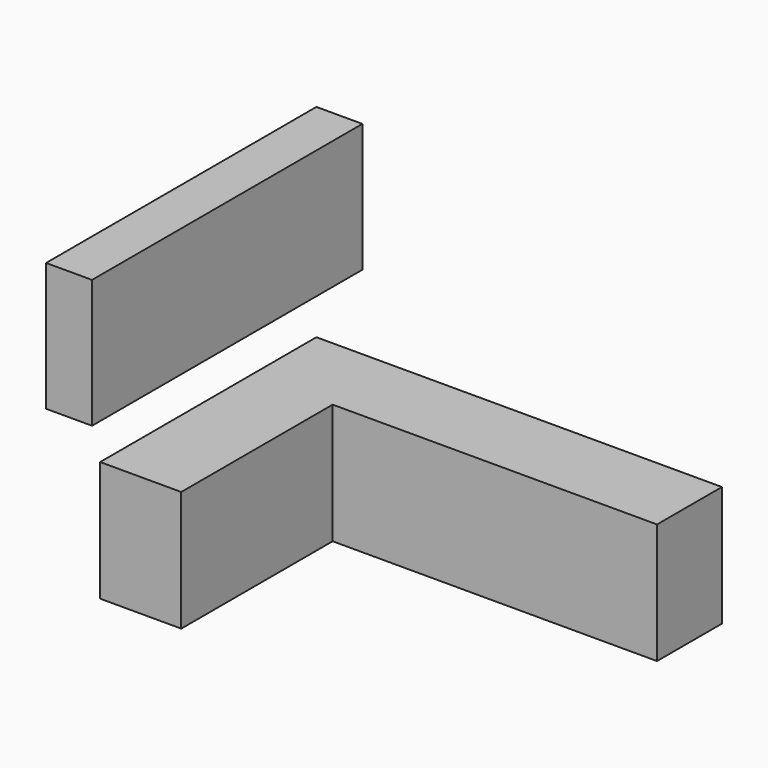
from build123d import *

# Parameters (mm, degrees)
F1_DEPTH = 890
F3_W     = 340
F3_H     = 2500
F4_DEPTH = 950


with BuildPart() as f1:
    # F0 (on Top) → F1 (new body)
    with BuildSketch(Plane.XY):
        Polygon((3000, 0), (0, 0), (0, -2000), (600, -2000), (600, -600), (3000, -600), align=None)
    extrude(amount=F1_DEPTH)


with BuildPart() as f4:
    # F3 (on offset) → F4 (new body)
    with BuildSketch(Plane.XY.offset(1440)):
        with Locations((170, -1250)):
            Rectangle(F3_W, F3_H)
    extrude(amount=F4_DEPTH)


solid = Compound([f1.part, f4.part])
